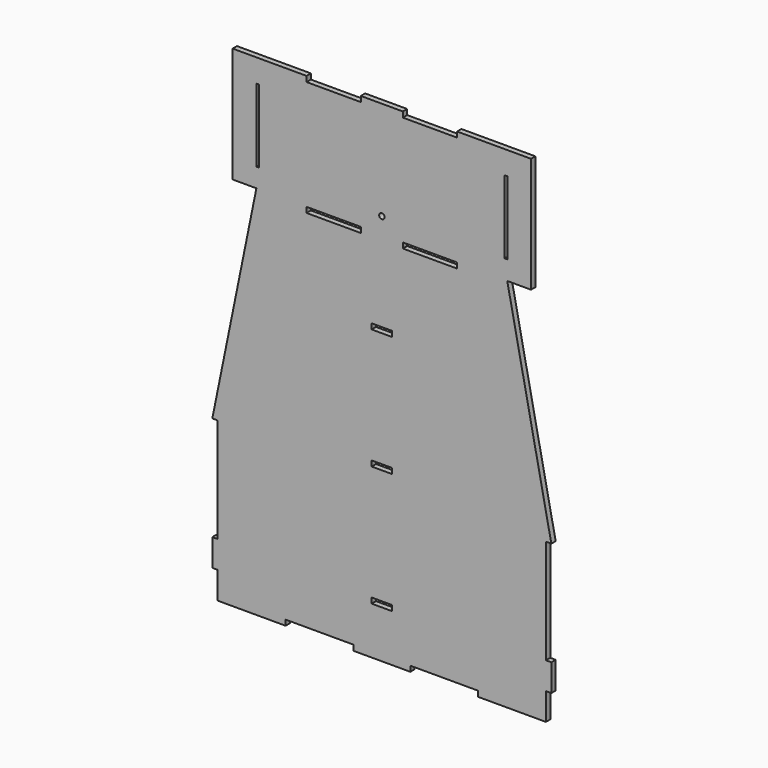
from build123d import *

# Parameters (mm, degrees)
F0_W     = 40
F0_H     = 4
F1_DEPTH = 4
F2_W     = 2
F2_H     = 54
F2_W_2   = 7.5
F2_H_2   = 4
F3_DEPTH = 4


with BuildPart() as f1:
    # F0 (on Front) → F1 (new body)
    with BuildSketch(Plane.XZ):
        Polygon((-54, 0), (-4, 0), (-4, 20), (0, 20), (0, 40), (-4, 40), (-4, 117), (0, 117), (-32.5, 277), (-15, 277), (-15, 362), (-69.5, 362), (-69.5, 358), (-109.5, 358), (-109.5, 362), (-140.5, 362), (-140.5, 358), (-180.5, 358), (-180.5, 362), (-235, 362), (-235, 277), (-217.5, 277), (-250, 117), (-246, 117), (-246, 40), (-250, 40), (-250, 20), (-246, 20), (-246, 0), (-196, 0), (-196, 4), (-146, 4), (-146, 0), (-104, 0), (-104, 4), (-54, 4), align=None)
        with Locations((-160.5, 275)):
            Rectangle(F0_W, F0_H, mode=Mode.SUBTRACT)
        with Locations((-89.5, 275)):
            Rectangle(F0_W, F0_H, mode=Mode.SUBTRACT)
    extrude(amount=F1_DEPTH)

    # F2 (on Front) → F3 (cut)
    with BuildSketch(Plane.XZ):
        with Locations((-33.5, 318)):
            Rectangle(F2_W, F2_H)
        with Locations((-216.5, 318)):
            Rectangle(F2_W, F2_H)
        with BuildLine():
            ThreePointArc((-125, 287), (-123.5857864376, 287.5857864376), (-123, 289))
            ThreePointArc((-123, 289), (-123.5857864376, 290.4142135624), (-125, 291))
            Line((-125, 291), (-125, 287))
        make_face()
        with Locations((-121.25, 37)):
            Rectangle(F2_W_2, F2_H_2)
        with Locations((-128.75, 37)):
            Rectangle(F2_W_2, F2_H_2)
        with Locations((-121.25, 126)):
            Rectangle(F2_W_2, F2_H_2)
        with Locations((-128.75, 126)):
            Rectangle(F2_W_2, F2_H_2)
        with Locations((-121.25, 215)):
            Rectangle(F2_W_2, F2_H_2)
        with Locations((-128.75, 215)):
            Rectangle(F2_W_2, F2_H_2)
        with BuildLine():
            Line((-125, 287), (-125, 291))
            ThreePointArc((-125, 291), (-127, 289), (-125, 287))
        make_face()
    extrude(amount=F3_DEPTH, mode=Mode.SUBTRACT)


solid = f1.part
